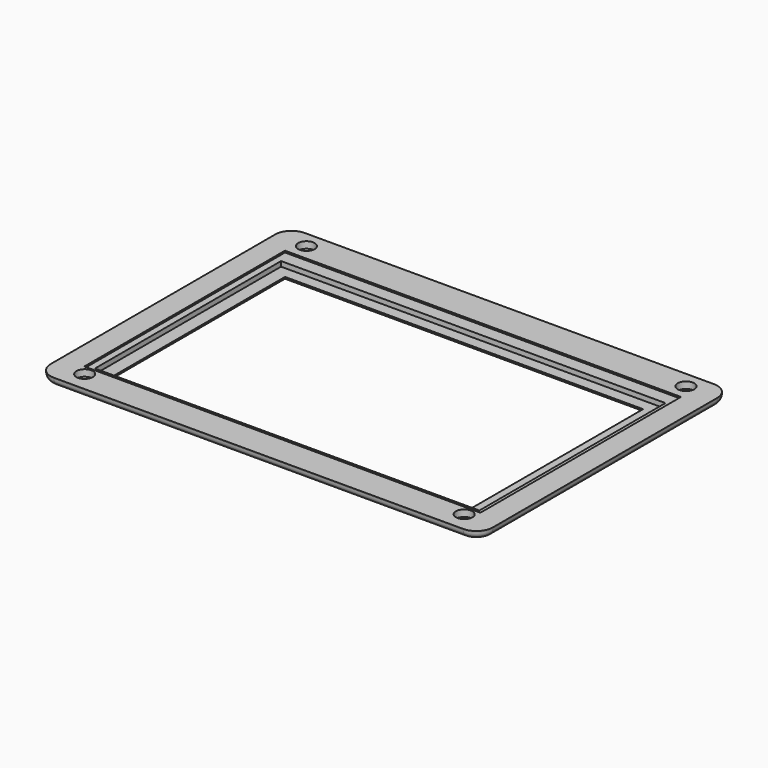
from build123d import *

# Parameters (mm, degrees)
F0_R     = 2.5
F0_W     = 120
F0_H     = 76
F1_DEPTH = 2.5
F0_W_2   = 116.5
F0_H_2   = 70.5
F0_W_3   = 108.5
F0_H_3   = 65
F2_DEPTH = 0.5
F3_DEPTH = 2
F4_R     = 2.2


with BuildPart() as f1:
    # F0 (on Top) → F1 (new body)
    with BuildSketch(Plane.XY):
        with BuildLine():
            Line((62, 47.5), (-62, 47.5))
            ThreePointArc((-62, 47.5), (-65.535534, 46.035534), (-67, 42.5))
            Line((-67, 42.5), (-67, -42.5))
            ThreePointArc((-67, -42.5), (-65.535534, -46.035534), (-62, -47.5))
            Line((-62, -47.5), (62, -47.5))
            ThreePointArc((62, -47.5), (65.535534, -46.035534), (67, -42.5))
            Line((67, -42.5), (67, 42.5))
            ThreePointArc((67, 42.5), (65.535534, 46.035534), (62, 47.5))
        make_face()
        with Locations((-57.5, -41.5)):
            Circle(F0_R, mode=Mode.SUBTRACT)
        with Locations((57.5, -41.5)):
            Circle(F0_R, mode=Mode.SUBTRACT)
        with Locations((0, -0.5)):
            Rectangle(F0_W, F0_H, mode=Mode.SUBTRACT)
        with Locations((-57.5, 42.5)):
            Circle(F0_R, mode=Mode.SUBTRACT)
        with Locations((57.5, 42.5)):
            Circle(F0_R, mode=Mode.SUBTRACT)
    extrude(amount=F1_DEPTH)

    # F4
    f4_edges = [f1.edges().sort_by_distance(p)[0] for p in [
        (-65.535534, 46.035534, 0),
    ]]
    fillet(f4_edges, radius=F4_R)


with BuildPart() as f2:
    # F0 (on Top) → F2 (new body)
    with BuildSketch(Plane.XY):
        with Locations((0.25, -1.75)):
            Rectangle(F0_W_2, F0_H_2)
        with Locations((0.25, -2.5)):
            Rectangle(F0_W_3, F0_H_3, mode=Mode.SUBTRACT)
        with Locations((57.5, 42.5)):
            Circle(F0_R)
        with Locations((57.5, -41.5)):
            Circle(F0_R)
        with Locations((-57.5, -41.5)):
            Circle(F0_R)
        with Locations((-57.5, 42.5)):
            Circle(F0_R)
    extrude(amount=F2_DEPTH)


with BuildPart() as f3:
    # F0 (on Top) → F3 (new body)
    with BuildSketch(Plane.XY):
        with Locations((0, -0.5)):
            Rectangle(F0_W, F0_H)
        with Locations((0.25, -1.75)):
            Rectangle(F0_W_2, F0_H_2, mode=Mode.SUBTRACT)
    extrude(amount=F3_DEPTH)


solid = Compound([f1.part, f2.part, f3.part])
